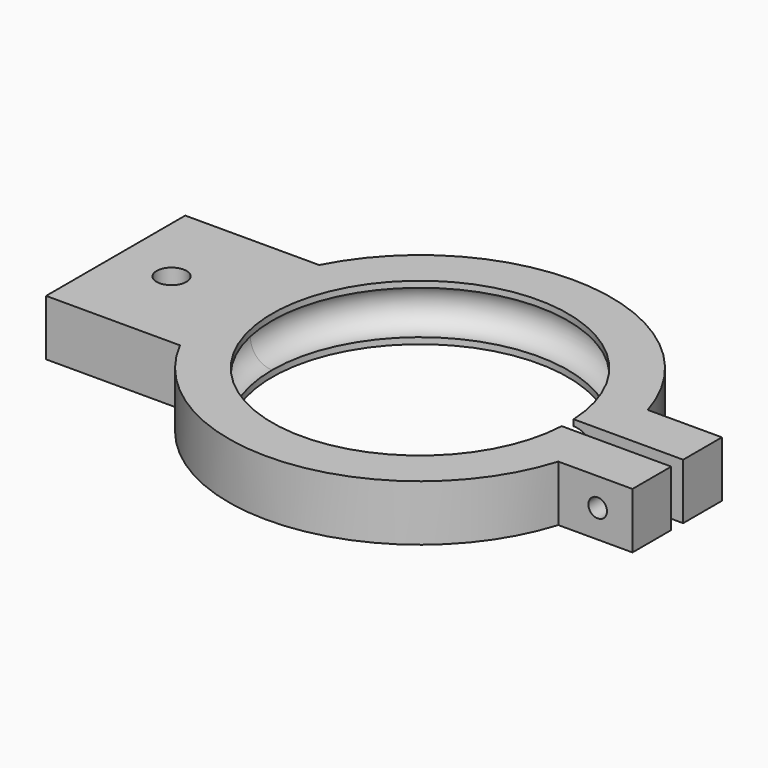
from build123d import *

# Parameters (mm, degrees)
F2_R     = 1.2
F3_DEPTH = 4.5
F4_R     = 0.75
F5_DEPTH = 7
F6_R     = 0.75
F7_DEPTH = 25
F9_DEPTH = 25


with BuildPart() as f1:
    # F0 (on Front) → F1 (revolve)
    with BuildSketch(Plane.XZ):
        with BuildLine():
            ThreePointArc((-16.2961422592, -2.25), (-18.5461422592, 0), (-16.2961422592, 2.25))
            Line((-16.2961422592, 2.25), (-19.7961422592, 2.25))
            Line((-19.7961422592, 2.25), (-19.7961422592, -2.25))
            Line((-19.7961422592, -2.25), (-16.2961422592, -2.25))
        make_face()
        with BuildLine():
            Line((-16.2961422592, 1.75), (-16.2961422592, 2.25))
            ThreePointArc((-16.2961422592, 2.25), (-18.5461422592, 0), (-16.2961422592, -2.25))
            Line((-16.2961422592, -2.25), (-16.2961422592, -1.75))
            ThreePointArc((-16.2961422592, -1.75), (-18.0461422592, 0), (-16.2961422592, 1.75))
        make_face()
    revolve(axis=Axis((-4.3961422592, 0, -0.5702087656), (0, 0, -1)))

    # F2 (on face) → F3 (join)
    with BuildSketch(Plane.XY.offset(2.25)):
        with BuildLine():
            ThreePointArc((-18.1132848188, -7), (-19.7961422592, 0), (-18.1132848188, 7))
            Line((-18.1132848188, 7), (-28.8961422592, 7))
            Line((-28.8961422592, 7), (-28.8961422592, -7))
            Line((-28.8961422592, -7), (-18.1132848188, -7))
        make_face()
        with Locations((-24.3961422592, 0)):
            Circle(F2_R, mode=Mode.SUBTRACT)
        with BuildLine():
            Line((16.3026824594, 4.5), (10.3317224876, 4.5))
            ThreePointArc((10.3317224876, 4.5), (10.8348970536, 2.2749596589), (11.0038577408, 0))
            ThreePointArc((11.0038577408, 0), (10.8348970536, -2.2749596589), (10.3317224876, -4.5))
            Line((10.3317224876, -4.5), (16.3026824594, -4.5))
            Line((16.3026824594, -4.5), (16.3026824594, 4.5))
        make_face()
    extrude(amount=-F3_DEPTH)

    # F4 (on face) → F5 (cut)
    with BuildSketch(Plane(origin=(0, 7, 0), x_dir=(-1, 0, 0), z_dir=(0, 1, 0))):
        with Locations((24.3961422592, 0)):
            Circle(F4_R)
    extrude(amount=-F5_DEPTH, mode=Mode.SUBTRACT)

    # F6 (on face) → F7 (cut)
    with BuildSketch(Plane(origin=(0, 4.5, 0), x_dir=(-1, 0, 0), z_dir=(0, 1, 0))):
        with Locations((-13.5026824594, 0)):
            Circle(F6_R)
    extrude(amount=-F7_DEPTH, mode=Mode.SUBTRACT)

    # F8 (on face) → F9 (cut)
    with BuildSketch(Plane.XY.offset(2.25)):
        with BuildLine():
            ThreePointArc((7.5038577408, 0), (7.50007322, 0.3000954384), (7.4887220648, 0.6))
            Line((7.4887220648, 0.6), (5.0247731139, 0.6))
            Line((5.0247731139, 0.6), (5.0247731139, -0.6))
            Line((5.0247731139, -0.6), (7.4887220648, -0.6))
            ThreePointArc((7.4887220648, -0.6), (7.50007322, -0.3000954384), (7.5038577408, 0))
        make_face()
        with BuildLine():
            Line((16.3026824594, -0.6), (16.3026824594, 0.6))
            Line((16.3026824594, 0.6), (7.4887220648, 0.6))
            ThreePointArc((7.4887220648, 0.6), (7.50007322, 0.3000954384), (7.5038577408, 0))
            ThreePointArc((7.5038577408, 0), (7.50007322, -0.3000954384), (7.4887220648, -0.6))
            Line((7.4887220648, -0.6), (16.3026824594, -0.6))
        make_face()
    extrude(amount=-F9_DEPTH, mode=Mode.SUBTRACT)


solid = f1.part
